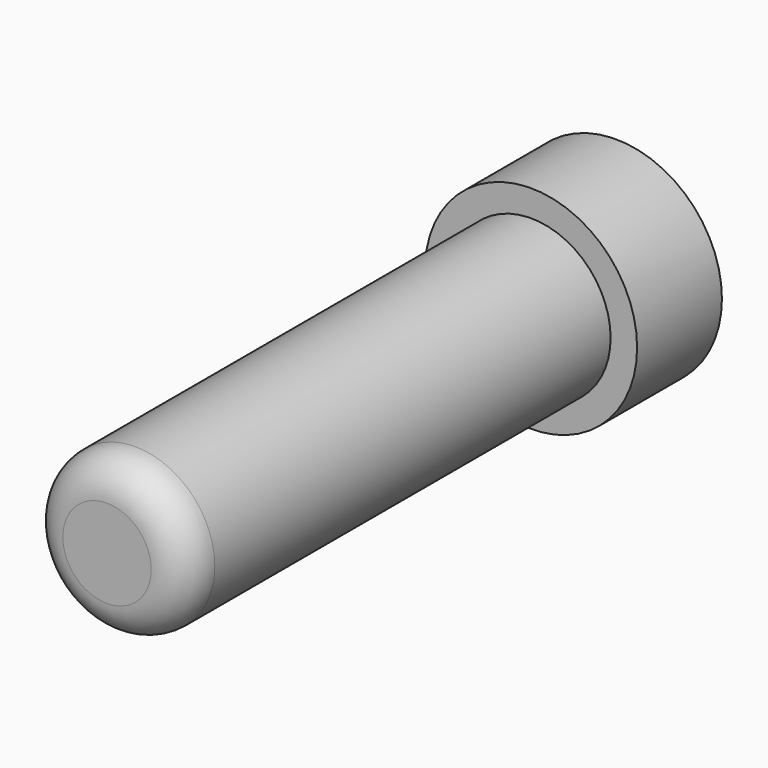
from build123d import *

# Parameters (mm, degrees)
F0_R     = 6
F1_DEPTH = 6
F2_R     = 4.5
F3_DEPTH = 30
F4_R     = 2
F6_D     = 6
F6_DEPTH = 15
F6_TIP   = 1.8025818571


with BuildPart() as f1:
    # F0 (on Front) → F1 (new body)
    with BuildSketch(Plane.XZ):
        Circle(F0_R)
    extrude(amount=F1_DEPTH)

    # F2 (on face) → F3 (join)
    with BuildSketch(Plane.XZ.offset(6)):
        Circle(F2_R)
    extrude(amount=F3_DEPTH)

    # F4
    f4_edges = [f1.edges().sort_by_distance(p)[0] for p in [
        (-4.5, -36, 0),
    ]]
    fillet(f4_edges, radius=F4_R)

    # F6
    with Locations(Plane(origin=(0, 0, 0), x_dir=(-1, 0, 0), z_dir=(0, 1, 0))):
        with Locations((0, 0)):
            Hole(F6_D / 2, depth=F6_DEPTH)
            with Locations((0, 0, -(F6_DEPTH + F6_TIP / 2))):  # 118° drill point
                Cone(0, F6_D / 2, F6_TIP, mode=Mode.SUBTRACT)


solid = f1.part
